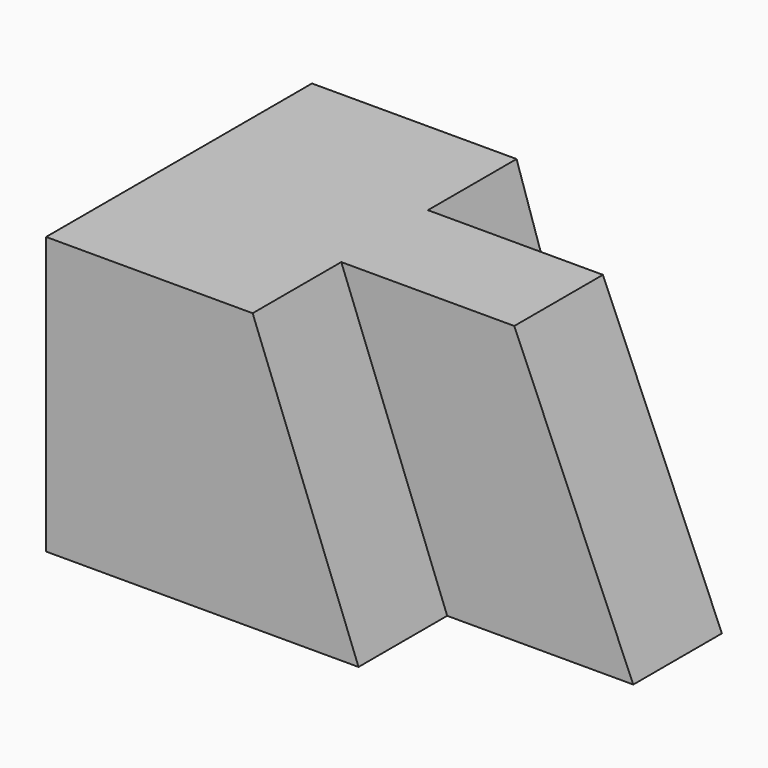
from build123d import *

# Parameters (mm, degrees)
F0_W      = 57.15
F0_H      = 31.75
F1_DEPTH  = 38.1
F2_DEPTH  = 12.7
F4_DEPTH  = 12.7
F6_DEPTH  = 12.7
F8_DEPTH  = 38.101
F9_DEPTH  = 6.35
F10_DEPTH = 6.35
F11_DEPTH = 6.35
F12_DEPTH = 6.35


with BuildPart() as f1:
    # F0 (on Front) → F1 (new body)
    with BuildSketch(Plane.XZ):
        with Locations((28.575, 15.875)):
            Rectangle(F0_W, F0_H)
    extrude(amount=F1_DEPTH)

    # F2 (add): a face of the model
    f2_faces = [f1.faces().sort_by_distance(p)[0] for p in [
        (28.575, -38.1, 15.875),
    ]]
    extrude(f2_faces, amount=F2_DEPTH)

    # F3 (on face) → F4 (cut)
    with BuildSketch(Plane.XZ.offset(50.8)):
        Polygon((57.15, 31.75), (23.6781723797, 31.75), (35.8164422214, 0), (57.15, 0), align=None)
    extrude(amount=-F4_DEPTH, mode=Mode.SUBTRACT)

    # F5 (on face) → F6 (cut)
    with BuildSketch(Plane(origin=(0, 0, 0), x_dir=(-1, 0, 0), z_dir=(0, 1, 0))):
        Polygon((-33.819206059, 0), (-23.4500579536, 31.75), (-57.15, 31.75), (-57.15, 0), align=None)
    extrude(amount=-F6_DEPTH, mode=Mode.SUBTRACT)

    # F7 (on face) → F8 (cut, through all)
    with BuildSketch(Plane.XZ.offset(38.1)):
        Polygon((57.15, 31.75), (43.5097105801, 31.75), (57.15, 0), align=None)
    extrude(amount=-F8_DEPTH, mode=Mode.SUBTRACT)

    # F9 (cut): a face of the model
    f9_faces = [f1.faces().sort_by_distance(p)[0] for p in [
        (40.1169646518, -38.1, 15.6819192663),
    ]]
    extrude(f9_faces, amount=-F9_DEPTH, mode=Mode.SUBTRACT)

    # F10 (cut): a face of the model
    f10_faces = [f1.faces().sort_by_distance(p)[0] for p in [
        (39.6330799675, -12.7, 15.4760691102),
    ]]
    extrude(f10_faces, amount=-F10_DEPTH, mode=Mode.SUBTRACT)

    # F11 (cut): a face of the model
    f11_faces = [f1.faces().sort_by_distance(p)[0] for p in [
        (14.4737687914, 0, 14.9168931282),
    ]]
    extrude(f11_faces, amount=-F11_DEPTH, mode=Mode.SUBTRACT)

    # F12 (cut): a face of the model
    f12_faces = [f1.faces().sort_by_distance(p)[0] for p in [
        (15.0800275041, -50.8, 14.7953782839),
    ]]
    extrude(f12_faces, amount=-F12_DEPTH, mode=Mode.SUBTRACT)


solid = f1.part
